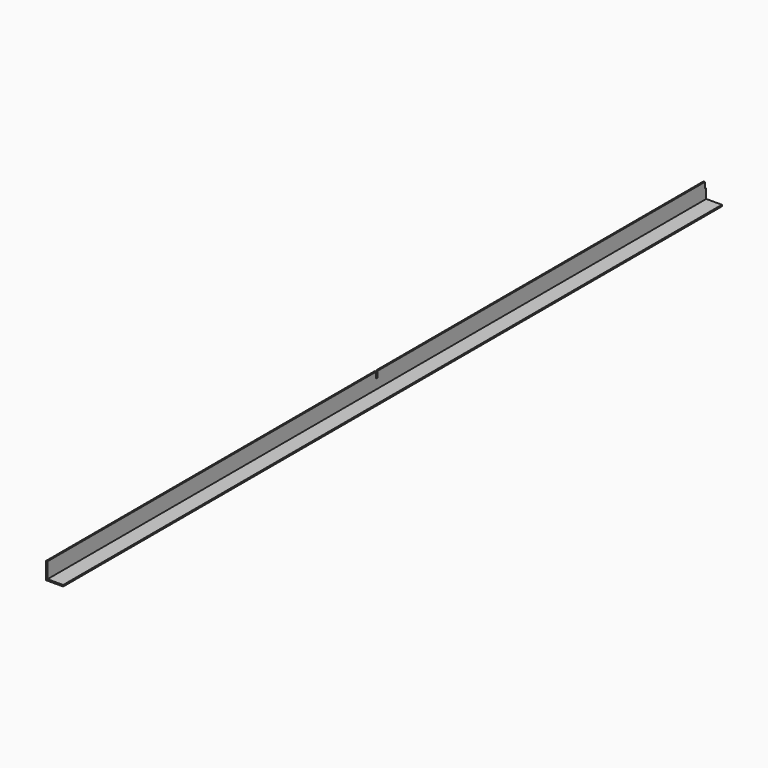
from build123d import *

# Parameters (mm, degrees)
F1_DEPTH = 1835.15
F2_W     = 3.96875
F2_H     = 13.49375
F3_DEPTH = 25.4


with BuildPart() as f1:
    # F0 (on Front) → F1 (new body)
    with BuildSketch(Plane.XZ):
        Polygon((-18.553972, 20.450408), (-21.728972, 20.450408), (-21.728972, -17.649592), (16.371028, -17.649592), (16.371028, -14.474592), (-18.553972, -14.474592), align=None)
    extrude(amount=F1_DEPTH)

    # F2 (on face) → F3 (cut)
    with BuildSketch(Plane(origin=(-21.728972, 0, 0), x_dir=(0, -1, 0), z_dir=(-1, 0, 0))):
        with Locations((917.575, 13.703533)):
            Rectangle(F2_W, F2_H)
        with Locations((1.984375, 13.703533)):
            Rectangle(F2_W, F2_H)
    extrude(amount=-F3_DEPTH, mode=Mode.SUBTRACT)


solid = f1.part
